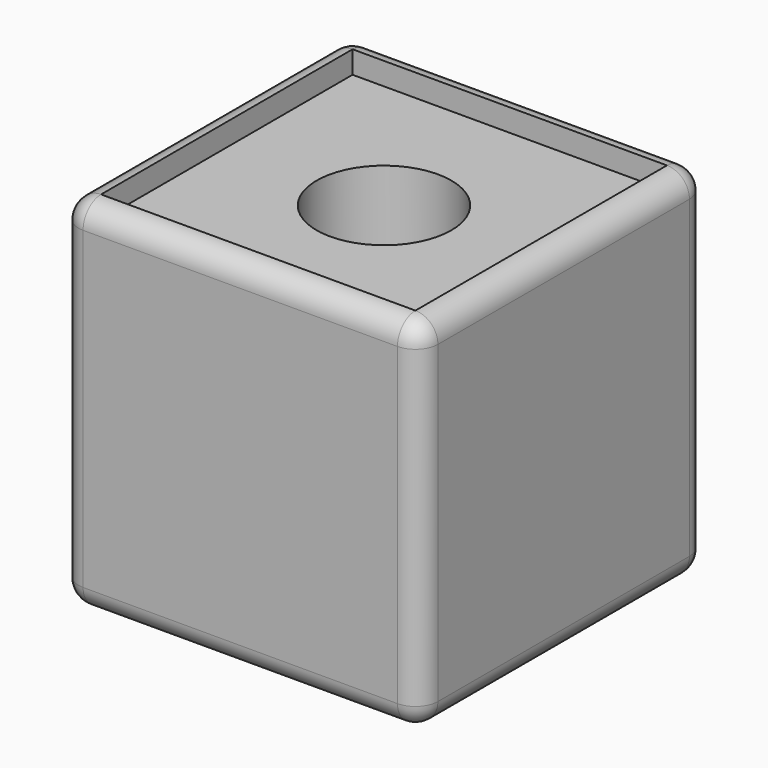
from build123d import *

# Parameters (mm, degrees)
F0_W     = 80
F0_H     = 80
F1_DEPTH = 40
F2_R     = 5
F3_R     = 15
F4_DEPTH = 80.001
F5_R     = 5
F6_DEPTH = 5


with BuildPart() as f1:
    # F0 (on Top) → F1 (new body, symmetric)
    with BuildSketch(Plane.XY):
        Rectangle(F0_W, F0_H)
    extrude(amount=F1_DEPTH, both=True)

    # F2
    f2_edges = [f1.edges().sort_by_distance(p)[0] for p in [
        (0, 40, 40),
        (-40, 0, 40),
        (0, -40, 40),
        (40, 0, 40),
        (-40, 40, 0),
        (0, 40, -40),
        (-40, 0, -40),
        (-40, -40, 0),
        (40, -40, 0),
        (40, 0, -40),
        (40, 40, 0),
        (0, -40, -40),
    ]]
    fillet(f2_edges, radius=F2_R)

    # F3 (on face) → F4 (cut, through all)
    with BuildSketch(Plane.XY.offset(40)):
        Circle(F3_R)
    extrude(amount=-F4_DEPTH, mode=Mode.SUBTRACT)

    # F5
    f5_edges = [f1.edges().sort_by_distance(p)[0] for p in [
        (-15, 0, -40),
    ]]
    fillet(f5_edges, radius=F5_R)

    # F6 (cut): a face of the model
    f6_faces = [f1.faces().sort_by_distance(p)[0] for p in [
        (0, 34.0100505063, 40),
    ]]
    extrude(f6_faces, amount=-F6_DEPTH, mode=Mode.SUBTRACT)


solid = f1.part
